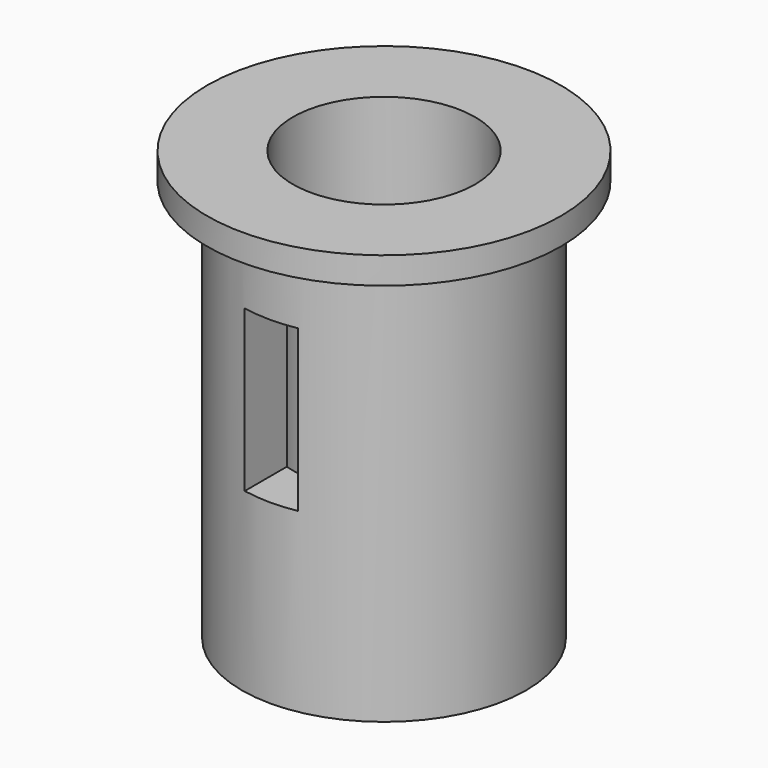
from build123d import *

# Parameters (mm, degrees)
F0_R     = 33
F0_R_2   = 26.5
F1_DEPTH = 5
F0_R_3   = 17
F2_DEPTH = 80
F3_W     = 4.817946
F3_H     = 30
F3_W_2   = 5.182054
F4_DEPTH = 50


with BuildPart() as f1:
    # F0 (on Top) → F1 (new body)
    with BuildSketch(Plane.XY):
        Circle(F0_R)
        Circle(F0_R_2, mode=Mode.SUBTRACT)
    extrude(amount=-F1_DEPTH)

    # F0 (on Top) → F2 (join)
    with BuildSketch(Plane.XY):
        Circle(F0_R_2)
        Circle(F0_R_3, mode=Mode.SUBTRACT)
    extrude(amount=-F2_DEPTH)

    # F3 (on Front) → F4 (cut, symmetric)
    with BuildSketch(Plane.XZ):
        with Locations((2.408973, -32)):
            Rectangle(F3_W, F3_H)
        with Locations((-2.591027, -32)):
            Rectangle(F3_W_2, F3_H)
    extrude(amount=F4_DEPTH, both=True, mode=Mode.SUBTRACT)


solid = f1.part
